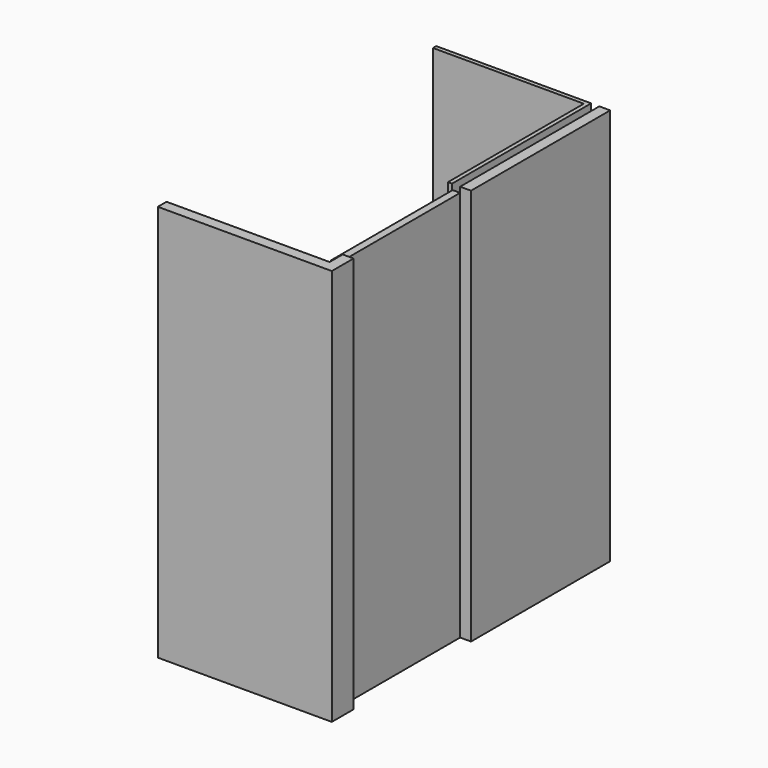
from build123d import *

# Parameters (mm, degrees)
F1_W      = 50.8
F1_H      = 812.8
F2_DEPTH  = 1854.2
F3_W      = 723.9
F3_H      = 812.8
F4_DEPTH  = 25.4
F5_W      = 381
F5_H      = 762
F6_DEPTH  = 381
F8_DEPTH  = 1854.2
F10_DEPTH = 1828.8
F11_W     = 34.925
F11_H     = 711.2
F12_DEPTH = 1828.8
F14_DEPTH = 12.7
F15_T     = -12.7


with BuildPart() as f2:
    # F1 (on Top) → F2 (new body)
    with BuildSketch(Plane.XY):
        with Locations((787.4, -406.4)):
            Rectangle(F1_W, F1_H)
    extrude(amount=F2_DEPTH)


with BuildPart() as f4:
    # F3 (on Top) → F4 (new body)
    with BuildSketch(Plane.XY):
        with Locations((361.95, -406.4)):
            Rectangle(F3_W, F3_H)
    extrude(amount=F4_DEPTH)

    # F9 (on face) → F10 (join, through all)
    with BuildSketch(Plane.XY.offset(25.4)):
        Polygon((0, 0), (0, -19.05), (704.85, -19.05), (704.85, -812.8), (723.9, -812.8), (723.9, 0), align=None)
    extrude(amount=F10_DEPTH)


with BuildPart() as f6:
    # F5 (on Top) → F6 (new body)
    with BuildSketch(Plane.XY):
        with Locations((190.5, -1193.8)):
            Rectangle(F5_W, F5_H)
    extrude(amount=F6_DEPTH)

    # F13 (on face) → F14 (join)
    with BuildSketch(Plane.XY.offset(381)):
        with BuildLine():
            ThreePointArc((333.7790857735, -1247.179350225), (355.6, -1193.8), (333.7790857735, -1140.420649775))
            ThreePointArc((333.7790857735, -1140.420649775), (218.1943715609, -1081.7075223967), (90.6318214739, -1104.8344180263))
            ThreePointArc((90.6318214739, -1104.8344180263), (38.1, -1193.7999948306), (90.6318214739, -1282.7655716349))
            ThreePointArc((90.6318214739, -1282.7655716349), (218.1943694086, -1305.8924696167), (333.7790857735, -1247.179350225))
        make_face()
    extrude(amount=F14_DEPTH)

    # F15
    f15_openings = [f6.faces().sort_by_distance(p)[0] for p in [
        (193.526876, -1193.799996, 393.7),
    ]]
    offset(amount=F15_T, openings=f15_openings, kind=Kind.INTERSECTION)


with BuildPart() as f8:
    # F7 (on Top) → F8 (new body, through all)
    with BuildSketch(Plane.XY):
        Polygon((762, -1574.8), (0, -1574.8), (0, -1625.6), (812.8, -1625.6), (812.8, -1498.6), (762, -1498.6), align=None)
    extrude(amount=F8_DEPTH)


with BuildPart() as f12:
    # F11 (on Top) → F12 (new body)
    with BuildSketch(Plane.XY):
        with Locations((744.5375, -1168.4)):
            Rectangle(F11_W, F11_H)
    extrude(amount=F12_DEPTH)


solid = Compound([f2.part, f4.part, f6.part, f8.part, f12.part])
